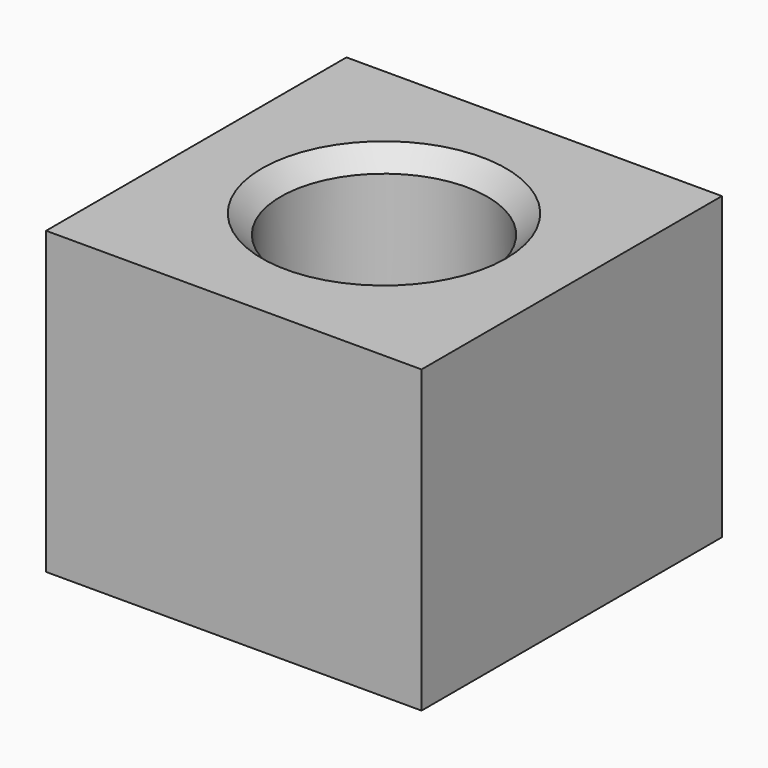
from build123d import *

# Parameters (mm, degrees)
SKETCH_W        = 10
SKETCH_H        = 10
PAD_DEPTH       = 8
SKETCH001_R     = 1.85
POCKET_DEPTH    = 8
SKETCH002_R     = 2.75
POCKET001_DEPTH = 5
CHAMFER_SIZE    = 0.5


with BuildPart() as part:
    # Sketch → Pad (new body)
    with BuildSketch(Plane.XY):
        Rectangle(SKETCH_W, SKETCH_H)
    extrude(amount=PAD_DEPTH)

    # Sketch001 (on Face6 of Pad) → Pocket (cut)
    with BuildSketch(Plane.XY.offset(8)):
        Circle(SKETCH001_R)
    extrude(amount=-POCKET_DEPTH, mode=Mode.SUBTRACT)

    # Sketch002 (on Face5 of Pocket) → Pocket001 (cut)
    with BuildSketch(Plane.XY.offset(8)):
        Circle(SKETCH002_R)
    extrude(amount=-POCKET001_DEPTH, mode=Mode.SUBTRACT)

    # Chamfer
    chamfer_edges = [part.edges().sort_by_distance(p)[0] for p in [
        (-2.75, 0, 8),
    ]]
    chamfer(chamfer_edges, length=CHAMFER_SIZE)


solid = part.part
